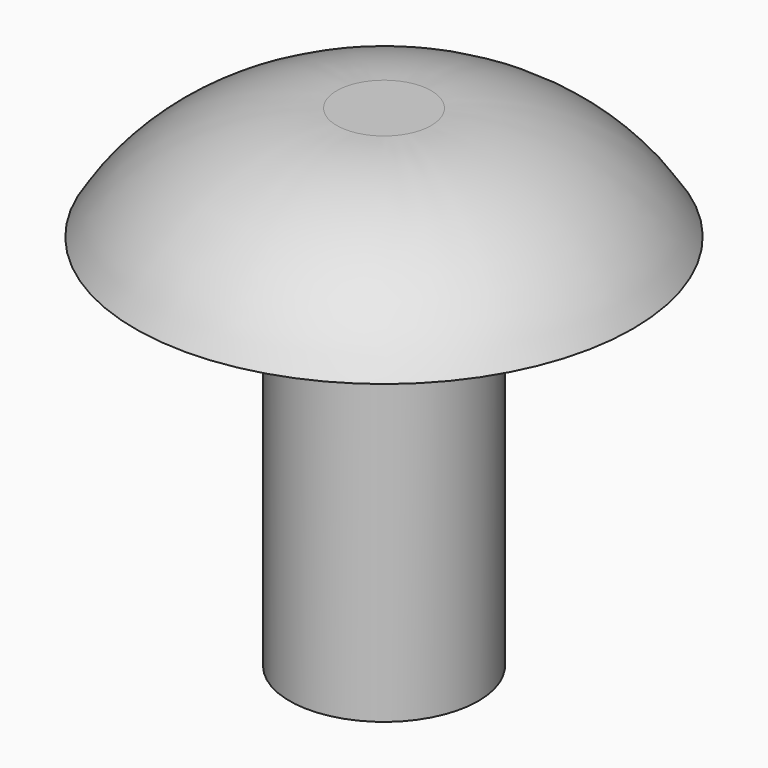
from build123d import *


with BuildPart() as f1:
    # F0 (on Front) → F1 (revolve)
    with BuildSketch(Plane.XZ):
        Polygon((-0.79375, 0), (0, 0), (0, 4.28752), (0, 8.255), (-0.79375, 8.255), align=None)
        with BuildLine():
            Line((0, 4.28752), (0, 0))
            Line((0, 0), (0.79375, 0))
            Line((0.79375, 0), (0.79375, 6.35))
            Line((0.79375, 6.35), (3.389259, 6.35))
            ThreePointArc((3.389259, 6.35), (1.943971, 7.746114), (0, 8.255))
            Line((0, 8.255), (0, 4.28752))
        make_face()
    revolve(axis=Axis((-0.79375, 0, 4.1275), (0, 0, 1)))


solid = f1.part
